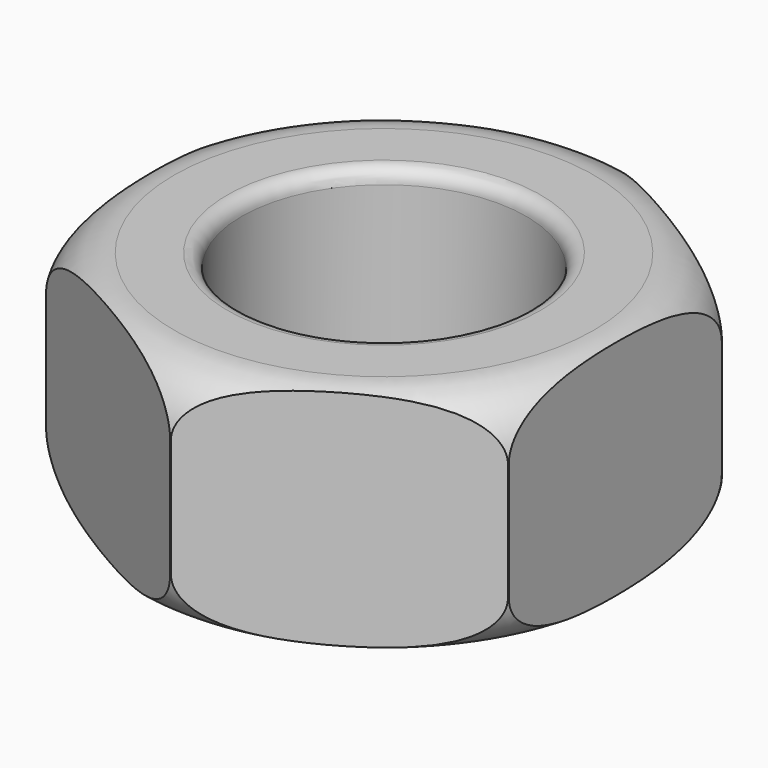
from build123d import *

# Parameters (mm, degrees)
TUBE_R          = 7.5
TUBE_R_2        = 4
TUBE_DEPTH      = 6.5
FILLET004_1_R   = 1.6
FILLET004_2_R   = 0.4
SKETCH014_R     = 12.203108
POCKET005_DEPTH = 6.501


with BuildPart() as part:
    # Tube → Tube (new body)
    with BuildSketch(Plane.XY):
        Circle(TUBE_R)
        Circle(TUBE_R_2, mode=Mode.SUBTRACT)
    extrude(amount=TUBE_DEPTH)

    # Fillet004 1
    fillet004_1_edges = [part.edges().sort_by_distance(p)[0] for p in [
        (-7.5, 0, 6.5),
        (-7.5, 0, 0),
    ]]
    fillet(fillet004_1_edges, radius=FILLET004_1_R)

    # Fillet004 2
    fillet004_2_edges = [part.edges().sort_by_distance(p)[0] for p in [
        (-4, 0, 6.5),
        (-4, 0, 0),
    ]]
    fillet(fillet004_2_edges, radius=FILLET004_2_R)

    # Sketch014 → Pocket005 (cut, through all)
    with BuildSketch(Plane.XY):
        Circle(SKETCH014_R)
        Polygon((6.5, -3.752777), (6.5, 3.752777), (0, 7.505553), (-6.5, 3.752777), (-6.5, -3.752777), (0, -7.505553), align=None, mode=Mode.SUBTRACT)
    extrude(amount=POCKET005_DEPTH, mode=Mode.SUBTRACT)


solid = part.part
